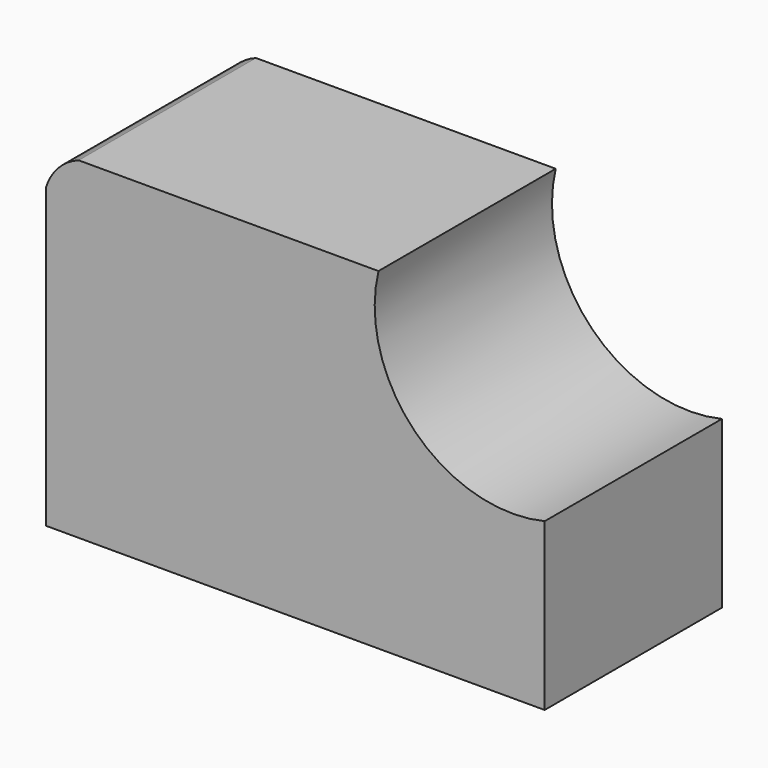
from build123d import *

# Parameters (mm, degrees)
F0_W     = 57.15
F0_H     = 38.1
F1_DEPTH = 25.4
F3_DEPTH = 25.4
F5_DEPTH = 25.4


with BuildPart() as f1:
    # F0 (on Front) → F1 (new body)
    with BuildSketch(Plane.XZ):
        with Locations((28.575, 19.05)):
            Rectangle(F0_W, F0_H)
    extrude(amount=F1_DEPTH)

    # F2 (on face) → F3 (cut)
    with BuildSketch(Plane.XZ.offset(25.4)):
        with BuildLine():
            Line((57.15, 38.1), (38.1, 38.1))
            ThreePointArc((38.1, 38.1), (42.301432, 23.251432), (57.15, 19.05))
            Line((57.15, 19.05), (57.15, 38.1))
        make_face()
    extrude(amount=-F3_DEPTH, mode=Mode.SUBTRACT)

    # F4 (on face) → F5 (cut)
    with BuildSketch(Plane.XZ.offset(25.4)):
        with BuildLine():
            Line((0, 38.1), (0, 34.175124))
            ThreePointArc((0, 34.175124), (1.409017, 36.575001), (3.736917, 38.1))
            Line((3.736917, 38.1), (0, 38.1))
        make_face()
    extrude(amount=-F5_DEPTH, mode=Mode.SUBTRACT)


solid = f1.part
